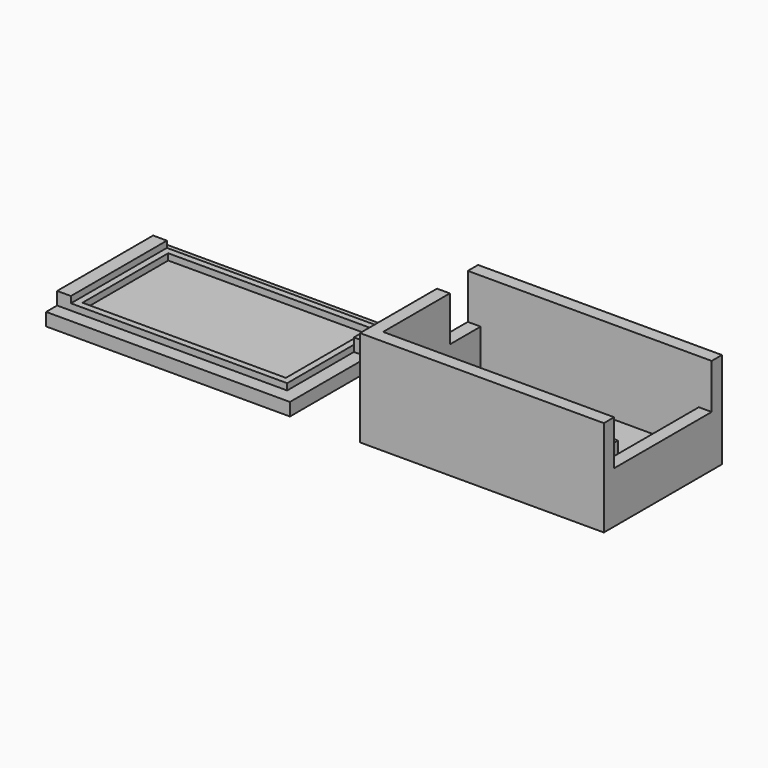
from build123d import *

# Parameters (mm, degrees)
F0_W     = 20
F0_H     = 5
F1_DEPTH = 2
F2_DEPTH = 4
F3_DEPTH = 15
F0_W_2   = 2
F0_H_2   = 19
F0_H_3   = 6
F4_DEPTH = 8
F5_W     = 2.15
F5_H     = 13
F5_W_2   = 31.7
F5_H_2   = 16.7
F6_DEPTH = 2
F7_DEPTH = 3
F5_H_3   = 5.7
F5_H_4   = 18.7
F8_DEPTH = 4


with BuildPart() as f1:
    # F0 (on Top) → F1 (new body)
    with BuildSketch(Plane.XY):
        Polygon((-17, -9.5), (17, -9.5), (17, 9.5), (-17, 9.5), (-17, 3.5), align=None)
        Rectangle(F0_W, F0_H, mode=Mode.SUBTRACT)
    extrude(amount=F1_DEPTH)

    # F0 (on Top) → F2 (join)
    with BuildSketch(Plane.XY):
        Rectangle(F0_W, F0_H)
    extrude(amount=F2_DEPTH)

    # F0 (on Top) → F3 (join)
    with BuildSketch(Plane.XY):
        Polygon((19, -9.5), (17, -9.5), (-17, -9.5), (-17, 3.5), (-19, 3.5), (-19, -11.5), (19, -11.5), align=None)
        Polygon((-17, 9.5), (17, 9.5), (19, 9.5), (19, 11.5), (-19, 11.5), (-19, 9.5), align=None)
    extrude(amount=F3_DEPTH)

    # F0 (on Top) → F4 (join)
    with BuildSketch(Plane.XY):
        with Locations((18, 0)):
            Rectangle(F0_W_2, F0_H_2)
        with Locations((-18, 6.5)):
            Rectangle(F0_W_2, F0_H_3)
    extrude(amount=F4_DEPTH)


with BuildPart() as f6:
    # F5 (on Top) → F6 (new body)
    with BuildSketch(Plane.XY):
        Polygon((-67.916532, 9.35), (-65.766532, 9.35), (-32.066532, 9.35), (-29.916532, 9.35), (-29.916532, 11.5), (-67.916532, 11.5), align=None)
        Polygon((-29.916532, -9.35), (-32.066532, -9.35), (-65.766532, -9.35), (-67.916532, -9.35), (-67.916532, -11.5), (-29.916532, -11.5), align=None)
        with Locations((-30.991532, -2.85)):
            Rectangle(F5_W, F5_H)
        with Locations((-48.916532, 0)):
            Rectangle(F5_W_2, F5_H_2)
    extrude(amount=F6_DEPTH)

    # F5 (on Top) → F7 (join)
    with BuildSketch(Plane.XY):
        Polygon((-65.766532, -9.35), (-32.066532, -9.35), (-32.066532, 3.65), (-32.066532, 9.35), (-65.766532, 9.35), align=None)
        with Locations((-48.916532, 0)):
            Rectangle(F5_W_2, F5_H_2, mode=Mode.SUBTRACT)
    extrude(amount=F7_DEPTH)

    # F5 (on Top) → F8 (join)
    with BuildSketch(Plane.XY):
        with Locations((-30.991532, 6.5)):
            Rectangle(F5_W, F5_H_3)
        with Locations((-66.841532, 0)):
            Rectangle(F5_W, F5_H_4)
    extrude(amount=F8_DEPTH)


solid = Compound([f1.part, f6.part])
